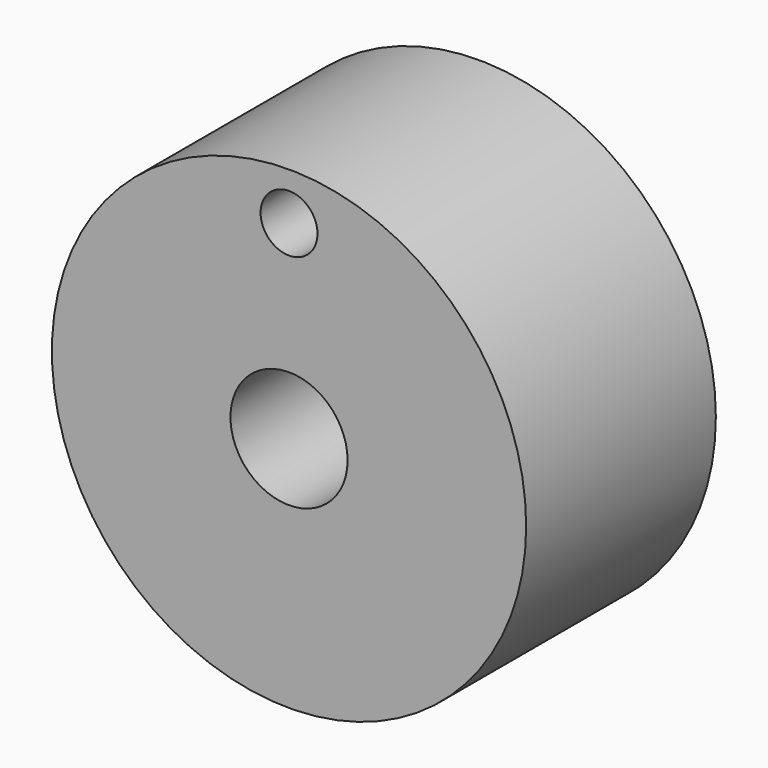
from build123d import *

# Parameters (mm, degrees)
F0_R     = 12.7
F0_R_2   = 3.1369
F0_R_3   = 1.524
F1_DEPTH = 12.7


with BuildPart() as f1:
    # F0 (on Front) → F1 (new body)
    with BuildSketch(Plane.XZ):
        Circle(F0_R)
        Circle(F0_R_2, mode=Mode.SUBTRACT)
        with Locations((0, 10.16)):
            Circle(F0_R_3, mode=Mode.SUBTRACT)
    extrude(amount=F1_DEPTH)


solid = f1.part
